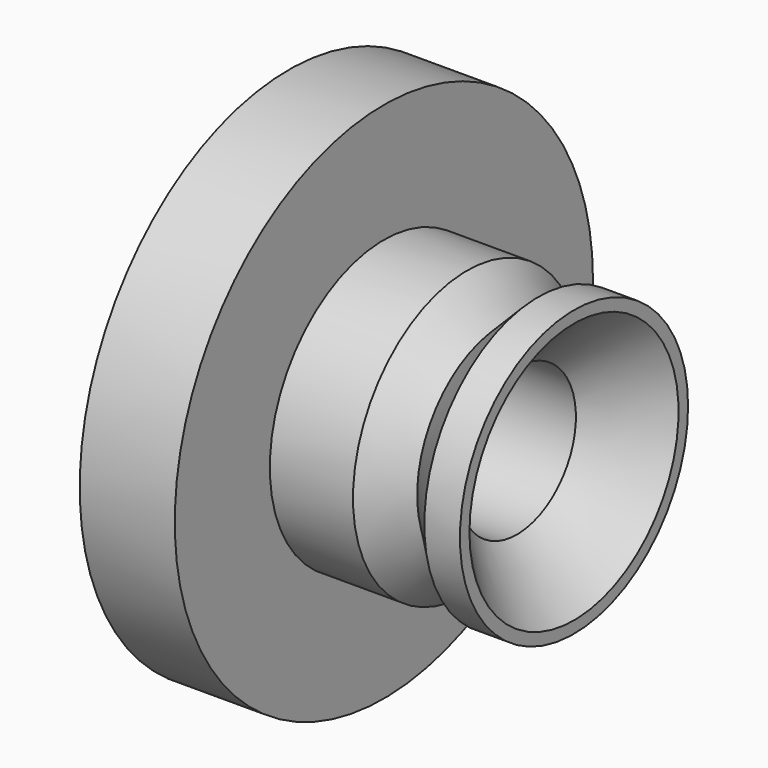
from build123d import *

# Parameters (mm, degrees)
F3_D           = 6.2
F3_CSINK_D     = 11
F3_CSINK_ANGLE = 90


with BuildPart() as f1:
    # F0 (on Top) → F1 (revolve)
    with BuildSketch(Plane.XY):
        Polygon((0, 11), (0, 0), (12, 0), (12, 6), (10.5, 6), (9, 4.5), (7.5, 6), (4, 6), (4, 11), align=None)
    revolve(axis=Axis((6, 0, 0), (1, 0, 0)))

    # F3 (through all)
    with Locations(Plane.YZ.offset(12)):
        with Locations((0, 0)):
            CounterSinkHole(F3_D / 2, F3_CSINK_D / 2, counter_sink_angle=F3_CSINK_ANGLE)


solid = f1.part
